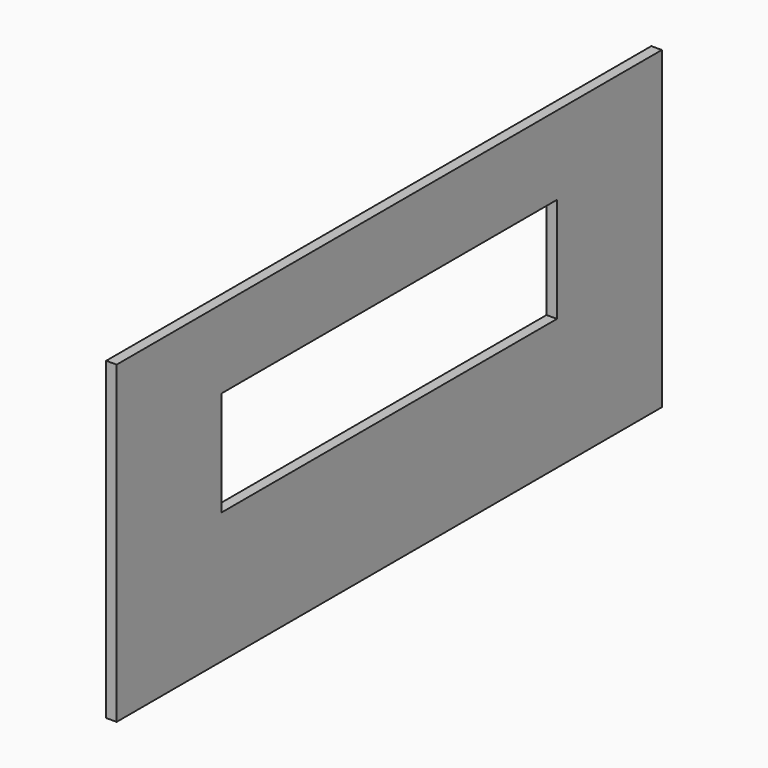
from build123d import *

# Parameters (mm, degrees)
BOX060_W     = 2
BOX060_H     = 80
BOX060_DEPTH = 20
BOX059_W     = 2
BOX059_H     = 130
BOX059_DEPTH = 60


with BuildPart() as cube060:
    # Box060 → Box060 (new body)
    with BuildSketch(Plane(origin=(200, 25, 25), x_dir=(1, 0, 0), z_dir=(0, 0, 1))):
        with Locations((1, 40)):
            Rectangle(BOX060_W, BOX060_H)
    extrude(amount=BOX060_DEPTH)


with BuildPart() as cut004:
    # Box059 → Box059 (new body)
    with BuildSketch(Plane(origin=(200, 0, 0), x_dir=(1, 0, 0), z_dir=(0, 0, 1))):
        with Locations((1, 65)):
            Rectangle(BOX059_W, BOX059_H)
    extrude(amount=BOX059_DEPTH)

    # Cut004: cut Cube060
    add(cube060.part, mode=Mode.SUBTRACT)


solid = cut004.part
